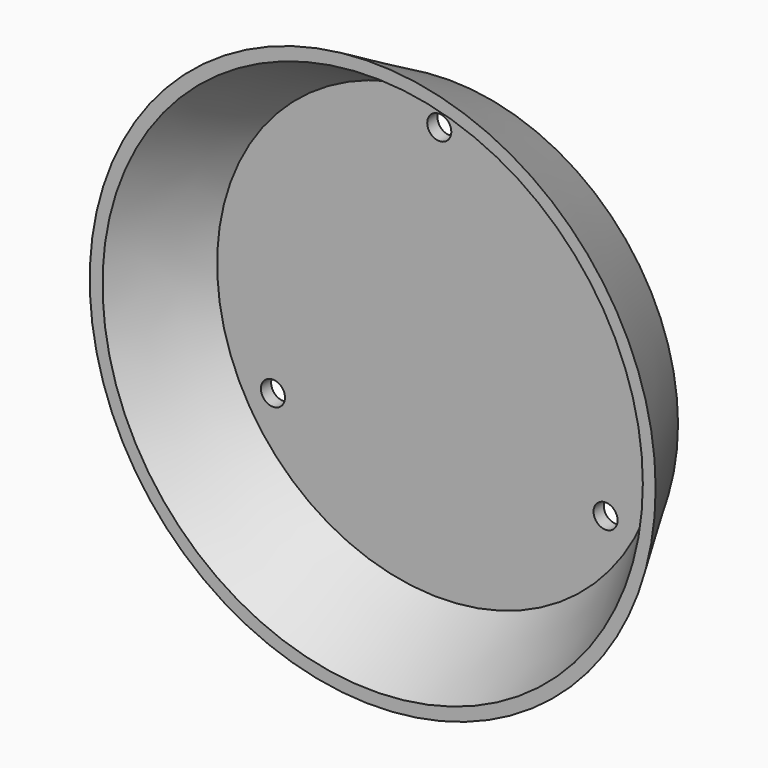
from build123d import *

# Parameters (mm, degrees)
SKETCH002_R        = 1.88
POCKET001_DEPTH    = 266.858481
POLARPATTERN_COUNT = 3


with BuildPart() as part:
    # Sketch → Revolution (revolve)
    with BuildSketch(Plane.XY):
        Polygon((0, 1), (35.7, 1), (44.205553, -14), (42.205553, -14), (34.7, -1), (0, -1), align=None)
    revolve(axis=Axis((0, 0, 0), (0, 1, 0)))

    # Sketch002 → Pocket001 (cut, through all)
    with BuildSketch(Plane(origin=(0, 1, 0), x_dir=(-1, 0, 0), z_dir=(0, 1, 0))):
        with Locations((0, 30)):
            Circle(SKETCH002_R)
    pocket001 = extrude(amount=-POCKET001_DEPTH, mode=Mode.SUBTRACT)

    # PolarPattern: Pocket001 ×3 about axis
    polarpattern_axis = Axis((0, 1, 0), (0, 1, 0))
    for i in range(1, POLARPATTERN_COUNT):
        add(pocket001.rotate(polarpattern_axis, i * 360 / POLARPATTERN_COUNT), mode=Mode.SUBTRACT)


solid = part.part
